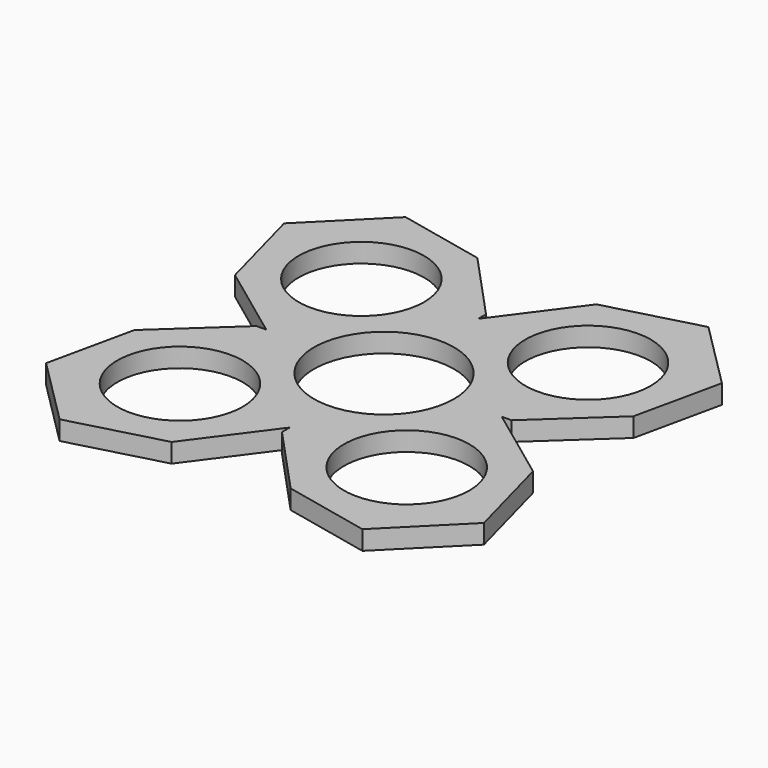
from build123d import *

# Parameters (mm, degrees)
F0_R     = 9.85
F0_R_2   = 11
F1_DEPTH = 3


with BuildPart() as f1:
    # F0 (on Top) → F1 (new body)
    with BuildSketch(Plane.XY):
        Polygon((0, 20.029893), (-10.174937, 31.051266), (-23.82041, 34.019975), (-34.427012, 23.413373), (-30.544726, 8.924486), (-18.48846, 0), (-20.029893, 0), (-31.051266, -10.174937), (-34.019975, -23.82041), (-23.413373, -34.427012), (-8.924486, -30.544726), (0, -18.48846), (0, -20.029893), (10.174937, -31.051266), (23.82041, -34.019975), (34.427012, -23.413373), (30.544726, -8.924486), (18.48846, 0), (20.029893, 0), (31.051266, 10.174937), (34.019975, 23.82041), (23.413373, 34.427012), (8.924486, 30.544726), (0, 18.48846), align=None)
        with Locations((-17.804349, -17.804349)):
            Circle(F0_R, mode=Mode.SUBTRACT)
        with Locations((17.804349, -17.804349)):
            Circle(F0_R, mode=Mode.SUBTRACT)
        with Locations((-17.804349, 17.804349)):
            Circle(F0_R, mode=Mode.SUBTRACT)
        Circle(F0_R_2, mode=Mode.SUBTRACT)
        with Locations((17.804349, 17.804349)):
            Circle(F0_R, mode=Mode.SUBTRACT)
    extrude(amount=F1_DEPTH)


solid = f1.part
